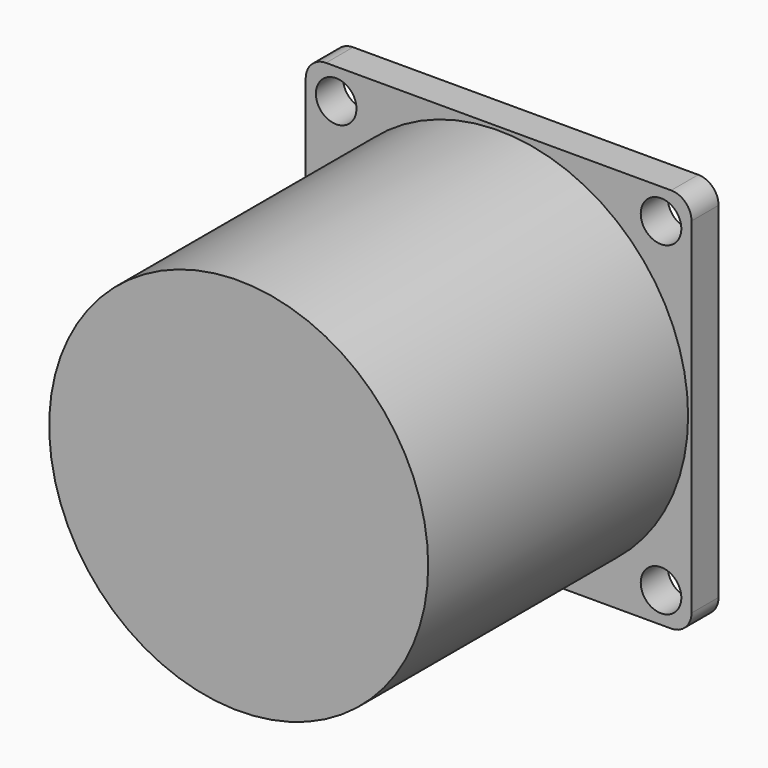
from build123d import *

# Parameters (mm, degrees)
SKETCH_W     = 57
SKETCH_H     = 57
PAD_DEPTH    = 5
FILLET_R     = 3
SKETCH001_R  = 28
PAD001_DEPTH = 48
SKETCH002_R  = 3.175
PAD002_DEPTH = 10
SKETCH003_R  = 19
PAD003_DEPTH = 1
SKETCH004_R  = 3
POCKET_DEPTH = 53.001


with BuildPart() as part:
    # Sketch → Pad (new body)
    with BuildSketch(Plane.XZ):
        with Locations((28.5, 28.5)):
            Rectangle(SKETCH_W, SKETCH_H)
    extrude(amount=-PAD_DEPTH)

    # Fillet
    fillet_edges = [part.edges().sort_by_distance(p)[0] for p in [
        (0, 2.5, 0),
        (57, 2.5, 0),
        (57, 2.5, 57),
        (0, 2.5, 57),
    ]]
    fillet(fillet_edges, radius=FILLET_R)

    # Sketch001 → Pad001 (new body)
    with BuildSketch(Plane.XZ):
        with Locations((28.5, 28.5)):
            Circle(SKETCH001_R)
    extrude(amount=PAD001_DEPTH)

    # Sketch002 → Pad002 (new body)
    with BuildSketch(Plane(origin=(0, 5, 0), x_dir=(-1, 0, 0), z_dir=(0, 1, 0))):
        with Locations((-28.5, 28.5)):
            Circle(SKETCH002_R)
    extrude(amount=PAD002_DEPTH)

    # Sketch003 → Pad003 (new body)
    with BuildSketch(Plane(origin=(0, 5, 0), x_dir=(-1, 0, 0), z_dir=(0, 1, 0))):
        with Locations((-28.5, 28.5)):
            Circle(SKETCH003_R)
    extrude(amount=PAD003_DEPTH)

    # Sketch004 → Pocket (cut, through all)
    with BuildSketch(Plane(origin=(0, 5, 0), x_dir=(-1, 0, 0), z_dir=(0, 1, 0))):
        with Locations((-52.5, 52.5)):
            Circle(SKETCH004_R)
        with Locations((-4.5, 52.5)):
            Circle(SKETCH004_R)
        with Locations((-52.5, 4.5)):
            Circle(SKETCH004_R)
        with Locations((-4.5, 4.5)):
            Circle(SKETCH004_R)
    extrude(amount=-POCKET_DEPTH, mode=Mode.SUBTRACT)


solid = part.part
